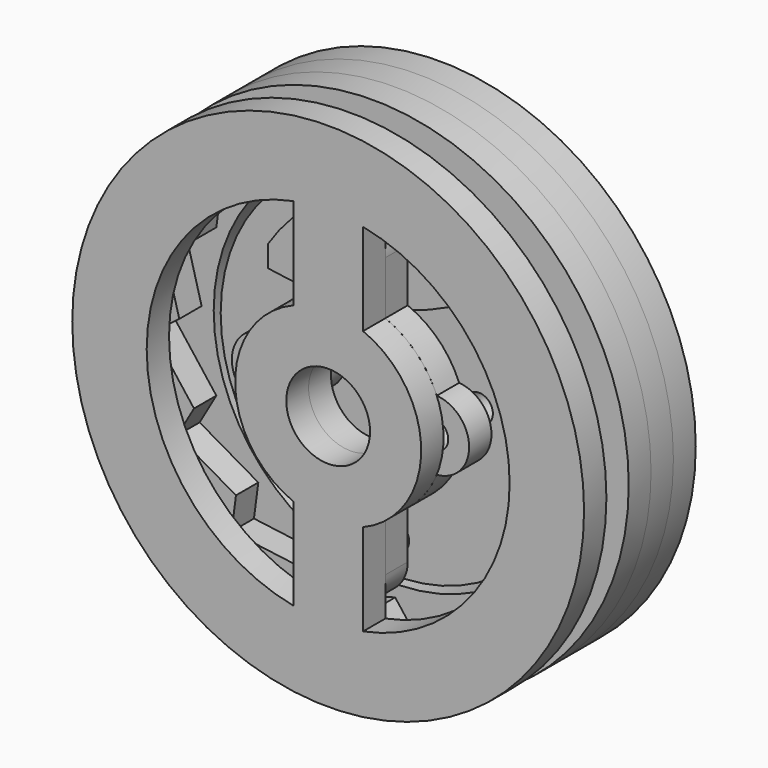
from build123d import *

# Parameters (mm, degrees)
F1_R      = 37.5
F1_R_2    = 3
F1_R_3    = 9
F2_DEPTH  = 6
F3_R      = 55
F4_DEPTH  = 6
F5_R      = 3
F6_DEPTH  = 6
F7_R      = 3
F8_DEPTH  = 18
F9_R      = 55
F9_R_2    = 39
F10_DEPTH = 6
F11_R     = 55
F11_R_2   = 9
F12_DEPTH = 6
F13_R     = 3
F13_R_2   = 9
F14_DEPTH = 6
F15_R     = 55
F15_R_2   = 9
F16_DEPTH = 6
F17_R     = 7.5
F17_R_2   = 3
F18_DEPTH = 6


with BuildPart() as f2:
    # F1 (on Front) → F2 (new body)
    with BuildSketch(Plane.XZ):
        Circle(F1_R)
        with Locations((0, -30)):
            Circle(F1_R_2, mode=Mode.SUBTRACT)
        with Locations((-18, 0)):
            Circle(F1_R_2, mode=Mode.SUBTRACT)
        Circle(F1_R_3, mode=Mode.SUBTRACT)
        with Locations((18, 0)):
            Circle(F1_R_2, mode=Mode.SUBTRACT)
        with Locations((0, 30)):
            Circle(F1_R_2, mode=Mode.SUBTRACT)
    extrude(amount=F2_DEPTH)


with BuildPart() as f4:
    # F3 (on face) → F4 (new body)
    with BuildSketch(Plane.XZ.offset(6)):
        Circle(F3_R)
        Polygon((42.021048, 22.146818), (38.431026, 15.918652), (47.297606, 4.380233), (41.597442, 0), (45.373533, -14.053203), (38.431026, -15.918652), (36.541751, -30.347166), (29.413834, -29.413834), (22.146818, -42.021048), (15.918652, -38.431026), (4.380233, -47.297606), (0, -41.597442), (-14.053203, -45.373533), (-15.918652, -38.431026), (-30.347166, -36.541751), (-29.413834, -29.413834), (-42.021048, -22.146818), (-38.431026, -15.918652), (-47.297606, -4.380233), (-41.597442, 0), (-45.373533, 14.053203), (-38.431026, 15.918652), (-36.541751, 30.347166), (-29.413834, 29.413834), (-22.146818, 42.021048), (-15.918652, 38.431026), (-4.380233, 47.297606), (0, 41.597442), (14.053203, 45.373533), (15.918652, 38.431026), (30.347166, 36.541751), (29.413834, 29.413834), align=None, mode=Mode.SUBTRACT)
    extrude(amount=F4_DEPTH)


with BuildPart() as f6:
    # F5 (on face) → F6 (new body)
    with BuildSketch(Plane.XZ.offset(6)):
        with BuildLine():
            Line((29.413834, 29.413834), (30.347166, 36.541751))
            Line((30.347166, 36.541751), (15.918652, 38.431026))
            ThreePointArc((15.918652, 38.431026), (-5.900849, 35.051392), (-22.479976, 20.469037))
            Line((-22.479976, 20.469037), (-22.479976, 15.783943))
            ThreePointArc((-22.479976, 15.783943), (4.969173, 16.879316), (29.413834, 29.413834))
        make_face()
        with Locations((0, 30)):
            Circle(F5_R, mode=Mode.SUBTRACT)
    extrude(amount=F6_DEPTH)


with BuildPart() as f8:
    # F7 (on Front) → F8 (new body)
    with BuildSketch(Plane.XZ):
        with Locations((0, -30)):
            Circle(F7_R)
    extrude(amount=F8_DEPTH)


with BuildPart() as f10:
    # F9 (on face) → F10 (new body)
    with BuildSketch(Plane(origin=(0, -6, 0), x_dir=(-1, 0, 0), z_dir=(0, 1, 0))):
        Circle(F9_R)
        Circle(F9_R_2, mode=Mode.SUBTRACT)
    extrude(amount=F10_DEPTH)


with BuildPart() as f12:
    # F11 (on face) → F12 (new body)
    with BuildSketch(Plane(origin=(0, 0, 0), x_dir=(-1, 0, 0), z_dir=(0, 1, 0))):
        Circle(F11_R)
        Circle(F11_R_2, mode=Mode.SUBTRACT)
    extrude(amount=F12_DEPTH)


with BuildPart() as f14:
    # F13 (on face) → F14 (new body)
    with BuildSketch(Plane.XZ.offset(12)):
        with BuildLine():
            Line((7.5, 18.540496), (7.5, 30))
            ThreePointArc((7.5, 30), (0, 37.5), (-7.5, 30))
            Line((-7.5, 30), (-7.5, 18.540496))
            ThreePointArc((-7.5, 18.540496), (-14.149795, 14.134472), (-18.548611, 7.479908))
            ThreePointArc((-18.548611, 7.479908), (-25.5, 0), (-18.548611, -7.479908))
            ThreePointArc((-18.548611, -7.479908), (-14.149795, -14.134472), (-7.5, -18.540496))
            Line((-7.5, -18.540496), (-7.5, -30))
            ThreePointArc((-7.5, -30), (0, -37.5), (7.5, -30))
            Line((7.5, -30), (7.5, -18.540496))
            ThreePointArc((7.5, -18.540496), (14.149795, -14.134472), (18.548611, -7.479908))
            ThreePointArc((18.548611, -7.479908), (25.5, 0), (18.548611, 7.479908))
            ThreePointArc((18.548611, 7.479908), (14.149795, 14.134472), (7.5, 18.540496))
        make_face()
        with Locations((0, -30)):
            Circle(F13_R, mode=Mode.SUBTRACT)
        with Locations((-18, 0)):
            Circle(F13_R, mode=Mode.SUBTRACT)
        Circle(F13_R_2, mode=Mode.SUBTRACT)
        with Locations((18, 0)):
            Circle(F13_R, mode=Mode.SUBTRACT)
        with Locations((0, 30)):
            Circle(F13_R, mode=Mode.SUBTRACT)
    extrude(amount=F14_DEPTH)


with BuildPart() as f16:
    # F15 (on face) → F16 (new body)
    with BuildSketch(Plane.XZ.offset(18)):
        Circle(F15_R)
        with BuildLine():
            ThreePointArc((-7.5, -38.272052), (-39, 0), (-7.5, 38.272052))
            Line((-7.5, 38.272052), (-7.5, 18.540496))
            ThreePointArc((-7.5, 18.540496), (-20, 0), (-7.5, -18.540496))
            Line((-7.5, -18.540496), (-7.5, -38.272052))
        make_face(mode=Mode.SUBTRACT)
        Circle(F15_R_2, mode=Mode.SUBTRACT)
        with BuildLine():
            ThreePointArc((7.5, -18.540496), (20, 0), (7.5, 18.540496))
            Line((7.5, 18.540496), (7.5, 38.272052))
            ThreePointArc((7.5, 38.272052), (39, 0), (7.5, -38.272052))
            Line((7.5, -38.272052), (7.5, -18.540496))
        make_face(mode=Mode.SUBTRACT)
    extrude(amount=F16_DEPTH)


with BuildPart() as f18:
    # F17 (on face) → F18 (new body)
    with BuildSketch(Plane.XZ.offset(6)):
        with Locations((-18, 0)):
            Circle(F17_R)
        with Locations((-18, 0)):
            Circle(F17_R_2, mode=Mode.SUBTRACT)
    extrude(amount=F18_DEPTH)


solid = Compound([f2.part, f4.part, f6.part, f8.part, f10.part, f12.part, f14.part, f16.part, f18.part])
